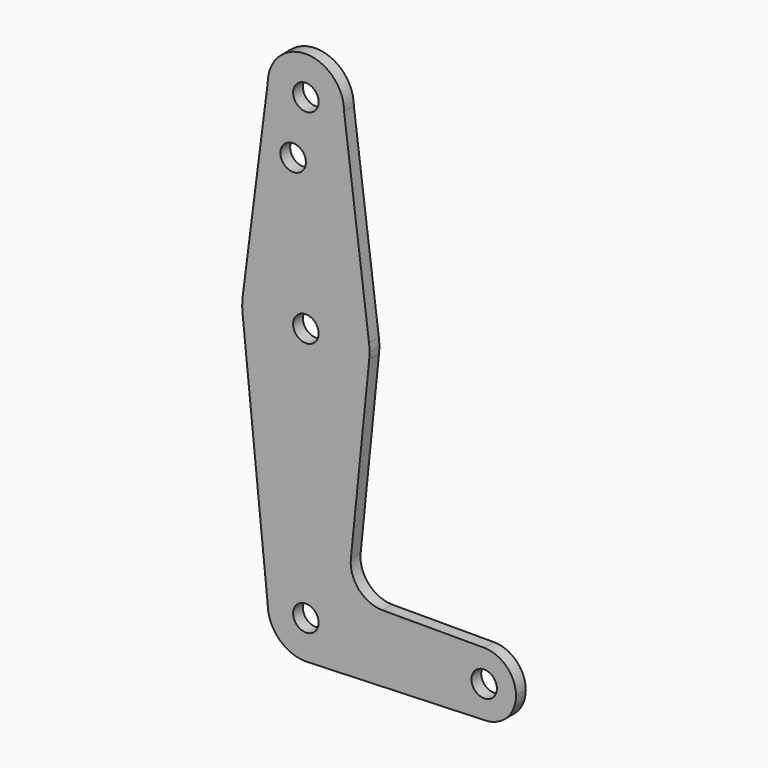
from build123d import *

# Parameters (mm, degrees)
F0_R     = 3.175
F1_DEPTH = 3.048


with BuildPart() as f1:
    # F0 (on Front) → F1 (new body)
    with BuildSketch(Plane.XZ):
        with BuildLine():
            ThreePointArc((-9.525, 114.3), (0, 104.775), (9.525, 114.3))
            ThreePointArc((9.525, 114.3), (0, 123.825), (-9.525, 114.3))
        make_face()
        with Locations((0, 114.3)):
            Circle(F0_R, mode=Mode.SUBTRACT)
        with BuildLine():
            Line((15.747457, 65.508289), (9.525, 114.3))
            ThreePointArc((9.525, 114.3), (0, 104.775), (-9.525, 114.3))
            Line((-9.525, 114.3), (-15.747457, 65.508289))
            ThreePointArc((-15.747457, 65.508289), (0, 79.375), (15.747457, 65.508289))
        make_face()
        with Locations((-3.175, 100.0252)):
            Circle(F0_R, mode=Mode.SUBTRACT)
        with BuildLine():
            ThreePointArc((15.875, 63.5), (15.843082, 64.506168), (15.747457, 65.508289))
            ThreePointArc((15.747457, 65.508289), (0, 79.375), (-15.747457, 65.508289))
            ThreePointArc((-15.747457, 65.508289), (-15.873668, 63.705667), (-15.794203, 61.90038))
            ThreePointArc((-15.794203, 61.90038), (0, 47.625), (15.794203, 61.90038))
            ThreePointArc((15.794203, 61.90038), (15.854788, 62.699171), (15.875, 63.5))
        make_face()
        with Locations((0, 63.5)):
            Circle(F0_R, mode=Mode.SUBTRACT)
        with BuildLine():
            ThreePointArc((15.794203, 61.90038), (0, 47.625), (-15.794203, 61.90038))
            Line((-15.794203, 61.90038), (-9.525, 0))
            ThreePointArc((-9.525, 0), (0, 9.525), (9.525, 0))
            ThreePointArc((9.525, 0), (6.97129, -6.490511), (0.67949, -9.500732))
            Line((0.67949, -9.500732), (44.45, -7.9375))
            ThreePointArc((44.45, -7.9375), (36.5125, 0), (44.45, 7.9375))
            Line((44.45, 7.9375), (19.124959, 7.9375))
            ThreePointArc((19.124959, 7.9375), (13.226887, 10.556806), (11.215222, 16.688789))
            Line((11.215222, 16.688789), (15.794203, 61.90038))
        make_face()
        with BuildLine():
            ThreePointArc((9.525, 0), (0, 9.525), (-9.525, 0))
            ThreePointArc((-9.525, 0), (-6.735192, -6.735192), (0, -9.525))
            Line((0, -9.525), (0.67949, -9.500732))
            ThreePointArc((0.67949, -9.500732), (6.97129, -6.490511), (9.525, 0))
        make_face()
        Circle(F0_R, mode=Mode.SUBTRACT)
        with BuildLine():
            Line((0.67949, -9.500732), (0, -9.525))
            ThreePointArc((0, -9.525), (0.339962, -9.518931), (0.67949, -9.500732))
        make_face()
        with BuildLine():
            ThreePointArc((52.3875, 0), (50.06266, 5.61266), (44.45, 7.9375))
            ThreePointArc((44.45, 7.9375), (36.5125, 0), (44.45, -7.9375))
            ThreePointArc((44.45, -7.9375), (50.06266, -5.61266), (52.3875, 0))
        make_face()
        with Locations((44.45, 0)):
            Circle(F0_R, mode=Mode.SUBTRACT)
    extrude(amount=F1_DEPTH)


solid = f1.part
